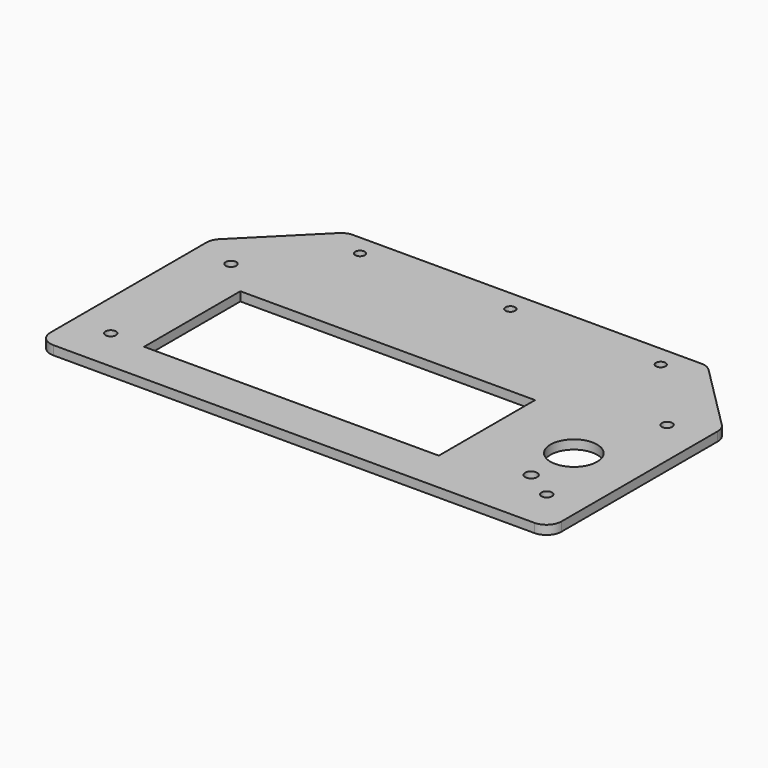
from build123d import *

# Parameters (mm, degrees)
F0_W     = 150
F0_H     = 55
F0_R     = 1.6
F0_R_2   = 1.75
F0_R_3   = 2
F0_W_2   = 98
F0_H_2   = 40
F0_R_4   = 7.75
F1_DEPTH = 3
F2_R     = 5


with BuildPart() as f1:
    # F0 (on Top) → F1 (new body)
    with BuildSketch(Plane.XY):
        Polygon((-85, 72), (-85, 0), (85, 0), (85, 72), (60, 97), (-60, 97), align=None)
        with Locations((0, 39.5)):
            Rectangle(F0_W, F0_H, mode=Mode.SUBTRACT)
        with Locations((-50, 90)):
            Circle(F0_R, mode=Mode.SUBTRACT)
        with Locations((0, 90)):
            Circle(F0_R, mode=Mode.SUBTRACT)
        with Locations((50, 90)):
            Circle(F0_R, mode=Mode.SUBTRACT)
        with Locations((0, 39.5)):
            Rectangle(F0_W, F0_H)
        with Locations((-72.5, 14.5)):
            Circle(F0_R_2, mode=Mode.SUBTRACT)
        with Locations((62.5, 20.5)):
            Circle(F0_R_3, mode=Mode.SUBTRACT)
        with Locations((-12, 34)):
            Rectangle(F0_W_2, F0_H_2, mode=Mode.SUBTRACT)
        with Locations((63.5, 37)):
            Circle(F0_R_4, mode=Mode.SUBTRACT)
        with Locations((72.5, 14.5)):
            Circle(F0_R_2, mode=Mode.SUBTRACT)
        with Locations((-72.5, 64.5)):
            Circle(F0_R_2, mode=Mode.SUBTRACT)
        with Locations((72.5, 64.5)):
            Circle(F0_R_2, mode=Mode.SUBTRACT)
    extrude(amount=F1_DEPTH)

    # F2
    f2_edges = [f1.edges().sort_by_distance(p)[0] for p in [
        (85, 0, 1.5),
        (85, 72, 1.5),
        (-85, 0, 1.5),
        (-85, 72, 1.5),
        (-60, 97, 1.5),
        (60, 97, 1.5),
    ]]
    fillet(f2_edges, radius=F2_R)


solid = f1.part
